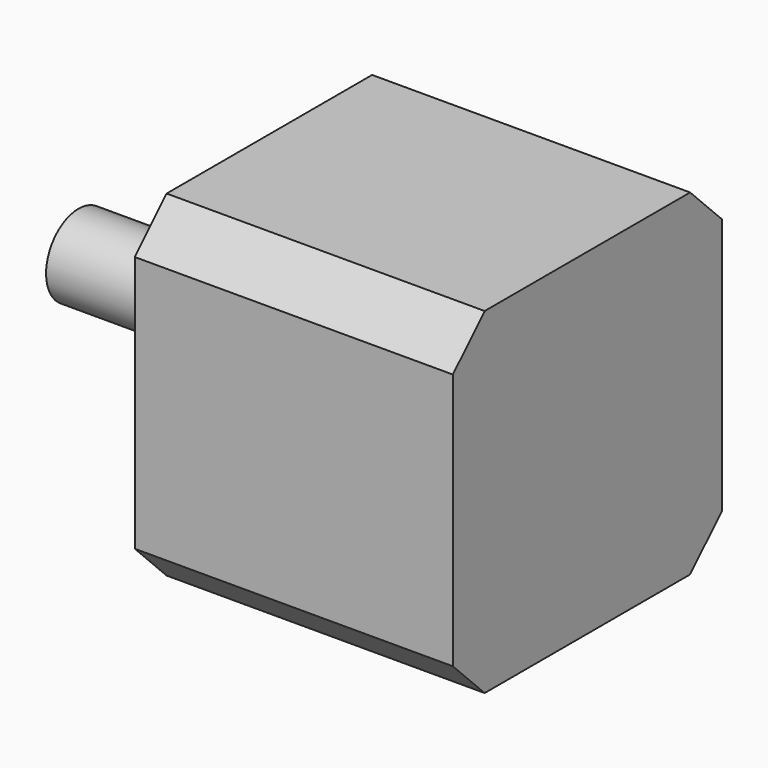
from build123d import *

# Parameters (mm, degrees)
SKETCH026_W             = 42.3
SKETCH026_H             = 42.3
PAD008_DEPTH            = 40
SKETCH025_R             = 11
PAD009_DEPTH            = 3
SKETCH023_R             = 5.1
PAD010_DEPTH            = 21
SKETCH027_R             = 1.5
POCKET012_DEPTH         = 5
CHAMFER002_SIZE         = 5
BODY007_PLACEMENT_ANGLE = 90


with BuildPart() as part:
    # Sketch026 → Pad008 (new body)
    with BuildSketch(Plane.XY):
        Rectangle(SKETCH026_W, SKETCH026_H)
    extrude(amount=PAD008_DEPTH)

    # Sketch025 (on Face6 of Pad008) → Pad009 (join)
    with BuildSketch(Plane.XY.offset(40)):
        Circle(SKETCH025_R)
    extrude(amount=PAD009_DEPTH)

    # Sketch023 (on Face8 of Pad009) → Pad010 (join)
    with BuildSketch(Plane.XY.offset(43)):
        Circle(SKETCH023_R)
    extrude(amount=PAD010_DEPTH)

    # Sketch027 (on Face5 of Pad010) → Pocket012 (cut)
    with BuildSketch(Plane.XY.offset(40)):
        with Locations((-15.5, 15.5)):
            Circle(SKETCH027_R)
        with Locations((15.5, 15.5)):
            Circle(SKETCH027_R)
        with Locations((15.5, -15.5)):
            Circle(SKETCH027_R)
        with Locations((-15.5, -15.5)):
            Circle(SKETCH027_R)
    extrude(amount=-POCKET012_DEPTH, mode=Mode.SUBTRACT)

    # Chamfer002
    chamfer002_edges = [part.edges().sort_by_distance(p)[0] for p in [
        (21.15, 21.15, 20),
        (21.15, -21.15, 20),
        (-21.15, 21.15, 20),
        (-21.15, -21.15, 20),
    ]]
    chamfer(chamfer002_edges, length=CHAMFER002_SIZE)


with BuildPart() as part_1:
    # Body007 placement: moved
    add(part.part.moved(Location((159, 0.1, 21.25))).rotate(Axis((159, 0.1, 21.25), (0, -1, 0)), BODY007_PLACEMENT_ANGLE))


solid = part_1.part
